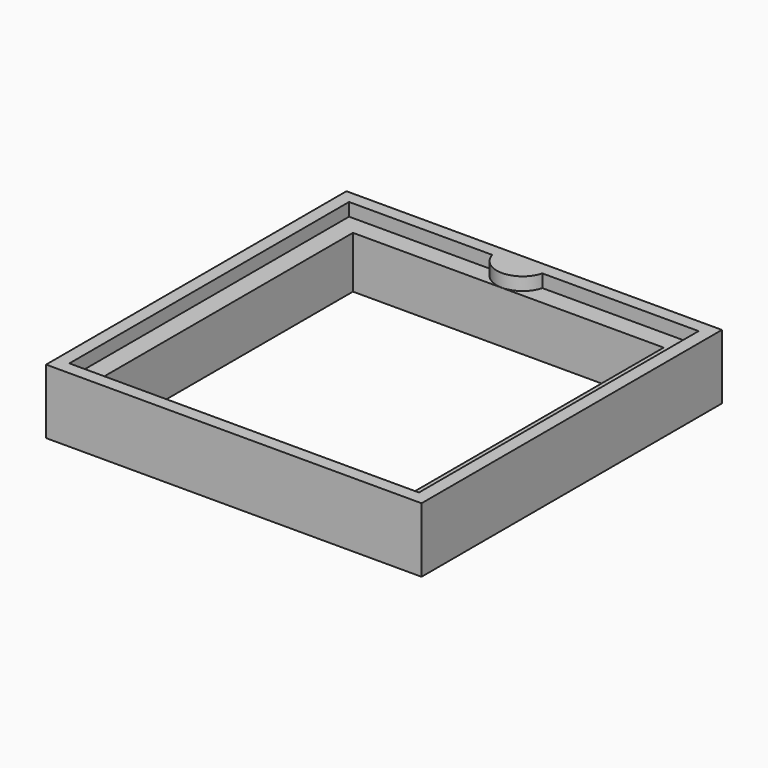
from build123d import *

# Parameters (mm, degrees)
F0_W     = 29
F0_H     = 29
F1_DEPTH = 5
F0_W_2   = 24
F0_H_2   = 24
F2_DEPTH = 4


with BuildPart() as f1:
    # F0 (on Top) → F1 (new body)
    with BuildSketch(Plane.XY):
        with Locations((14, 14)):
            Rectangle(F0_W, F0_H)
        with BuildLine():
            Line((0.5, 27.5), (11.566837, 27.5))
            ThreePointArc((11.566837, 27.5), (13.5, 26.01284), (15.433163, 27.5))
            Line((15.433163, 27.5), (27.5, 27.5))
            Line((27.5, 27.5), (27.5, 0.5))
            Line((27.5, 0.5), (0.5, 0.5))
            Line((0.5, 0.5), (0.5, 27.5))
        make_face(mode=Mode.SUBTRACT)
    extrude(amount=F1_DEPTH)

    # F0 (on Top) → F2 (join)
    with BuildSketch(Plane.XY):
        with BuildLine():
            ThreePointArc((15.433163, 27.5), (13.5, 26.01284), (11.566837, 27.5))
            Line((11.566837, 27.5), (0.5, 27.5))
            Line((0.5, 27.5), (0.5, 0.5))
            Line((0.5, 0.5), (27.5, 0.5))
            Line((27.5, 0.5), (27.5, 27.5))
            Line((27.5, 27.5), (15.433163, 27.5))
        make_face()
        with Locations((14, 14)):
            Rectangle(F0_W_2, F0_H_2, mode=Mode.SUBTRACT)
    extrude(amount=F2_DEPTH)


solid = f1.part
